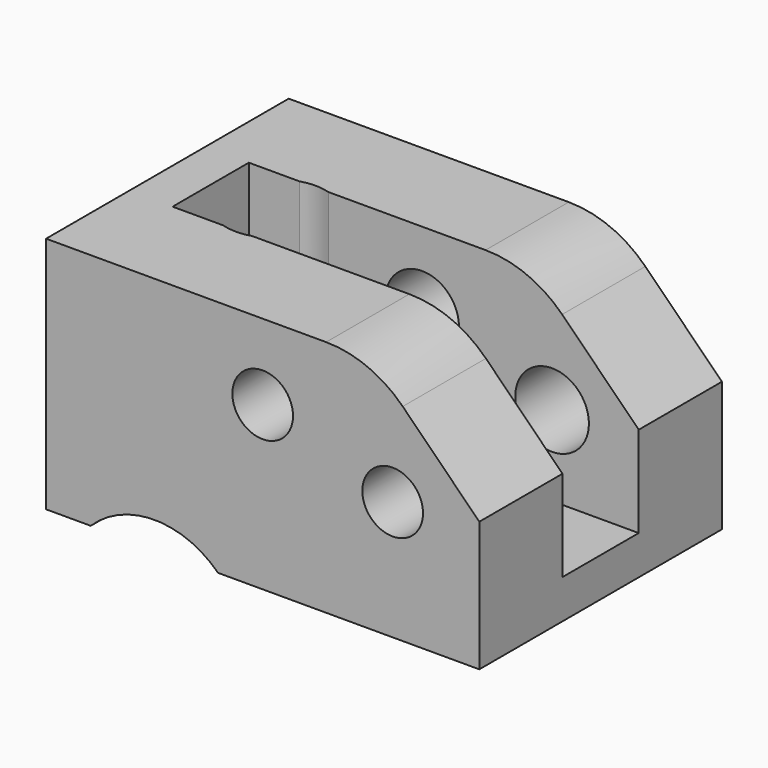
from build123d import *

# Parameters (mm, degrees)
CYLINDER060_R          = 2.3
CYLINDER060_DEPTH      = 62
CYLINDER062_R          = 4.2
CYLINDER062_DEPTH      = 24
CYLINDER062_ROLL_ANGLE = 90
BOX001024_W            = 23
BOX001024_H            = 4.4
BOX001024_DEPTH        = 13
CYLINDER056_R          = 1.7
CYLINDER056_DEPTH      = 20
CYLINDER056_ROLL_ANGLE = 90
CYLINDER057_R          = 1.7
CYLINDER057_DEPTH      = 20
CYLINDER057_ROLL_ANGLE = 90
CYLINDER059_R          = 1.4
CYLINDER059_DEPTH      = 20
CYLINDER059_ROLL_ANGLE = 90
CYLINDER058_R          = 1.4
CYLINDER058_DEPTH      = 20
CYLINDER058_ROLL_ANGLE = 90
BOX001025_W            = 10
BOX001025_H            = 27
BOX001025_DEPTH        = 10
BOX001022_W            = 23
BOX001022_H            = 14
BOX001022_DEPTH        = 11
CHAMFER003_SIZE        = 8
FILLET007_R            = 5


with BuildPart() as cylinder060:
    # Cylinder060 → Cylinder060 (new body)
    with BuildSketch(Plane.XY.offset(-56)):
        Circle(CYLINDER060_R)
    extrude(amount=CYLINDER060_DEPTH)


with BuildPart() as cylinder062:
    # Cylinder062 → Cylinder062 (new body)
    with BuildSketch(Plane.XY):
        Circle(CYLINDER062_R)
    extrude(amount=CYLINDER062_DEPTH)


with BuildPart() as cylinder062_1:
    # Cylinder062 roll: moved
    add(cylinder062.part.rotate(Axis((0, 0, 0), (1, 0, 0)), CYLINDER062_ROLL_ANGLE))


with BuildPart() as cylinder062_2:
    # Cylinder062 placement: moved
    add(cylinder062_1.part.moved(Location((0, 11, -52))))


with BuildPart() as cube022:
    # Box001024 → Box001024 (new body)
    with BuildSketch(Plane(origin=(-3, -2.2, -47.2), x_dir=(1, 0, 0), z_dir=(0, 0, 1))):
        with Locations((11.5, 2.2)):
            Rectangle(BOX001024_W, BOX001024_H)
    extrude(amount=BOX001024_DEPTH)


with BuildPart() as cylinder056:
    # Cylinder056 → Cylinder056 (new body)
    with BuildSketch(Plane.XY):
        Circle(CYLINDER056_R)
    extrude(amount=CYLINDER056_DEPTH)


with BuildPart() as cylinder056_1:
    # Cylinder056 roll: moved
    add(cylinder056.part.rotate(Axis((0, 0, 0), (1, 0, 0)), CYLINDER056_ROLL_ANGLE))


with BuildPart() as cylinder056_2:
    # Cylinder056 placement: moved
    add(cylinder056_1.part.moved(Location((11, 19, -43.5))))


with BuildPart() as cylinder057:
    # Cylinder057 → Cylinder057 (new body)
    with BuildSketch(Plane.XY):
        Circle(CYLINDER057_R)
    extrude(amount=CYLINDER057_DEPTH)


with BuildPart() as cylinder057_1:
    # Cylinder057 roll: moved
    add(cylinder057.part.rotate(Axis((0, 0, 0), (1, 0, 0)), CYLINDER057_ROLL_ANGLE))


with BuildPart() as cylinder057_2:
    # Cylinder057 placement: moved
    add(cylinder057_1.part.moved(Location((5, 19, -41.5))))


with BuildPart() as cylinder059:
    # Cylinder059 → Cylinder059 (new body)
    with BuildSketch(Plane.XY):
        Circle(CYLINDER059_R)
    extrude(amount=CYLINDER059_DEPTH)


with BuildPart() as cylinder059_1:
    # Cylinder059 roll: moved
    add(cylinder059.part.rotate(Axis((0, 0, 0), (1, 0, 0)), CYLINDER059_ROLL_ANGLE))


with BuildPart() as cylinder059_2:
    # Cylinder059 placement: moved
    add(cylinder059_1.part.moved(Location((5, -1, -41.5))))


with BuildPart() as fusion074:
    # Cylinder058 → Cylinder058 (new body)
    with BuildSketch(Plane.XY):
        Circle(CYLINDER058_R)
    extrude(amount=CYLINDER058_DEPTH)


with BuildPart() as fusion074_1:
    # Cylinder058 roll: moved
    add(fusion074.part.rotate(Axis((0, 0, 0), (1, 0, 0)), CYLINDER058_ROLL_ANGLE))


with BuildPart() as fusion074_2:
    # Cylinder058 placement: moved
    add(fusion074_1.part.moved(Location((11, -1, -43.5))))

    # Fusion074: union Cylinder056, Cylinder057, Cylinder059
    add(cylinder056_2.part)
    add(cylinder057_2.part)
    add(cylinder059_2.part)


with BuildPart() as cube023:
    # Box001025 → Box001025 (new body)
    with BuildSketch(Plane(origin=(15, -13, -44), x_dir=(1, 0, 0), z_dir=(0, 0, 1))):
        with Locations((5, 13.5)):
            Rectangle(BOX001025_W, BOX001025_H)
    extrude(amount=BOX001025_DEPTH)


with BuildPart() as cut_lever_block:
    # Box001022 → Box001022 (new body)
    with BuildSketch(Plane(origin=(-5, -7, -42), x_dir=(1, 0, 0), z_dir=(0, 0, 1))):
        with Locations((11.5, 7)):
            Rectangle(BOX001022_W, BOX001022_H)
    extrude(amount=BOX001022_DEPTH)

    # Chamfer003
    chamfer003_edges = [cut_lever_block.edges().sort_by_distance(p)[0] for p in [
        (18, 0, -31),
    ]]
    chamfer(chamfer003_edges, length=CHAMFER003_SIZE)

    # Fillet007
    fillet007_edges = [cut_lever_block.edges().sort_by_distance(p)[0] for p in [
        (10, 0, -31),
    ]]
    fillet(fillet007_edges, radius=FILLET007_R)

    # Cut022: cut Cube023
    add(cube023.part, mode=Mode.SUBTRACT)


with BuildPart() as cut_lever_block_1:
    # Cut022 placement: moved
    add(cut_lever_block.part.moved(Location((0, 0, -7))))

    # Cut027: cut Fusion074
    add(fusion074_2.part, mode=Mode.SUBTRACT)

    # Cut028: cut Cube022
    add(cube022.part, mode=Mode.SUBTRACT)

    # Cut029: cut Cylinder062
    add(cylinder062_2.part, mode=Mode.SUBTRACT)

    # Cut030: cut Cylinder060
    add(cylinder060.part, mode=Mode.SUBTRACT)


with BuildPart() as cut_lever_block_2:
    # Cut030 placement: moved
    add(cut_lever_block_1.part.moved(Location((0, 0, -6))))


solid = cut_lever_block_2.part
